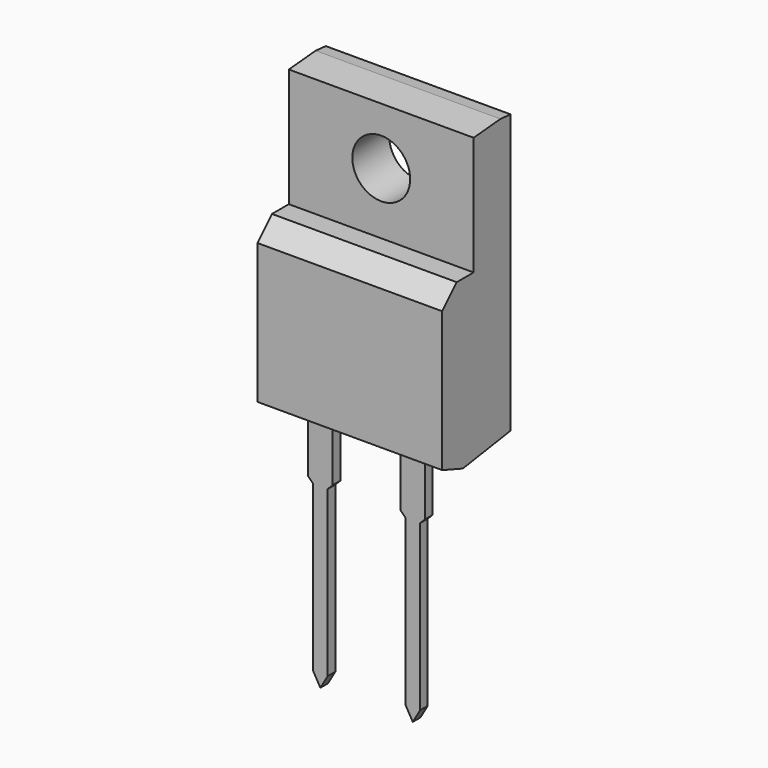
from build123d import *

# Parameters (mm, degrees)
PAD001_DEPTH    = 5.08
PAD_DEPTH       = 0.2625
SKETCH004_W     = 10.16
SKETCH004_H     = 2.54
PAD002_DEPTH    = 14.1
SKETCH005_R     = 1.59
POCKET_DEPTH    = 2.541
POCKET001_DEPTH = 10.161


with BuildPart() as pad001:
    # Sketch001 → Pad001 (new body, symmetric)
    with BuildSketch(Plane.YZ.offset(2.54)):
        Polygon((0, 3.23), (-1.415, 3.73), (-1.415, 11.42), (-0.415, 12.42), (3.285, 12.42), (3.285, 3.73), align=None)
    extrude(amount=PAD001_DEPTH, both=True)


with BuildPart() as pad:
    # Sketch → Pad (new body, symmetric)
    with BuildSketch(Plane.XZ):
        Polygon((-0.6775, 0.2775), (-0.4, 0), (-0.4, -9.05718), (0, -9.75), (0.4, -9.05718), (0.4, 0), (0.6775, 0.2775), (0.6775, 3.73), (-0.6775, 3.73), align=None)
        Polygon((4.4025, 0.2775), (4.68, 0), (4.68, -9.05718), (5.08, -9.75), (5.48, -9.05718), (5.48, 0), (5.7575, 0.2775), (5.7575, 3.73), (4.4025, 3.73), align=None)
    extrude(amount=PAD_DEPTH, both=True)


with BuildPart() as to_220f_2_vertical:
    # Sketch004 → Pad002 (new body)
    with BuildSketch(Plane.XY.offset(5)):
        with Locations((2.54, 2.015)):
            Rectangle(SKETCH004_W, SKETCH004_H)
    extrude(amount=PAD002_DEPTH)

    # Sketch005 → Pocket (cut, through all)
    with BuildSketch(Plane(origin=(0, 0.745, 5), x_dir=(1, 0, 0), z_dir=(0, -1, 0))):
        with Locations((2.54, 10.8)):
            Circle(SKETCH005_R)
    extrude(amount=-POCKET_DEPTH, mode=Mode.SUBTRACT)

    # Sketch006 → Pocket001 (cut, through all)
    with BuildSketch(Plane(origin=(7.62, 0, 5), x_dir=(0, 1, 0), z_dir=(1, 0, 0))):
        Polygon((2.585, 14.1), (0.745, 13.939021), (0.745, 14.939021), (3.285, 14.939021), (3.285, 14.038758), align=None)
    extrude(amount=-POCKET001_DEPTH, mode=Mode.SUBTRACT)

    add(pad001.part)
    add(pad.part)


solid = to_220f_2_vertical.part
